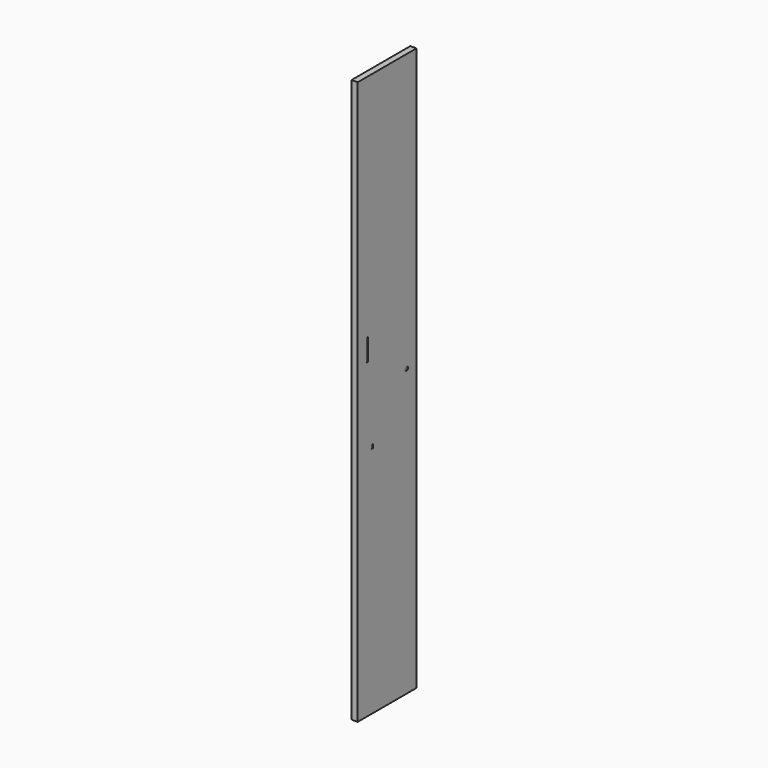
from build123d import *

# Parameters (mm, degrees)
PAD_DEPTH       = 5
SKETCH001_R     = 1.52
POCKET_DEPTH    = 0.5
SKETCH002_W     = 1.54
SKETCH002_H     = 18
POCKET001_DEPTH = 0.5
POCKET002_DEPTH = 0.5


with BuildPart() as part:
    # Sketch → Pad (new body)
    with BuildSketch(Plane.YZ):
        Polygon((0, 0), (-30, 0), (-30, 460), (30, 460), (30, 0), align=None)
    extrude(amount=-PAD_DEPTH)

    # Sketch001 → Pocket (cut)
    with BuildSketch(Plane.YZ):
        with Locations((20, 233.726693)):
            Circle(SKETCH001_R)
    extrude(amount=-POCKET_DEPTH, mode=Mode.SUBTRACT)

    # Sketch002 → Pocket001 (cut)
    with BuildSketch(Plane.YZ):
        with Locations((-20, 263.669193)):
            Rectangle(SKETCH002_W, SKETCH002_H)
    extrude(amount=-POCKET001_DEPTH, mode=Mode.SUBTRACT)

    # Sketch003 → Pocket002 (cut)
    with BuildSketch(Plane.YZ):
        with BuildLine():
            ThreePointArc((-15.5, 193.465807), (-15.690919, 193.386726), (-15.77, 193.195807))
            Line((-15.77, 190.735807), (-15.77, 193.195807))
            ThreePointArc((-15.77, 190.735807), (-15.690919, 190.544888), (-15.5, 190.465807))
            Line((-14.5, 190.465807), (-15.5, 190.465807))
            ThreePointArc((-14.5, 190.465807), (-14.309081, 190.544888), (-14.23, 190.735807))
            Line((-14.23, 193.195807), (-14.23, 190.735807))
            ThreePointArc((-14.23, 193.195807), (-14.309081, 193.386726), (-14.5, 193.465807))
            Line((-15.5, 193.465807), (-14.5, 193.465807))
        make_face()
    extrude(amount=-POCKET002_DEPTH, mode=Mode.SUBTRACT)


solid = part.part
